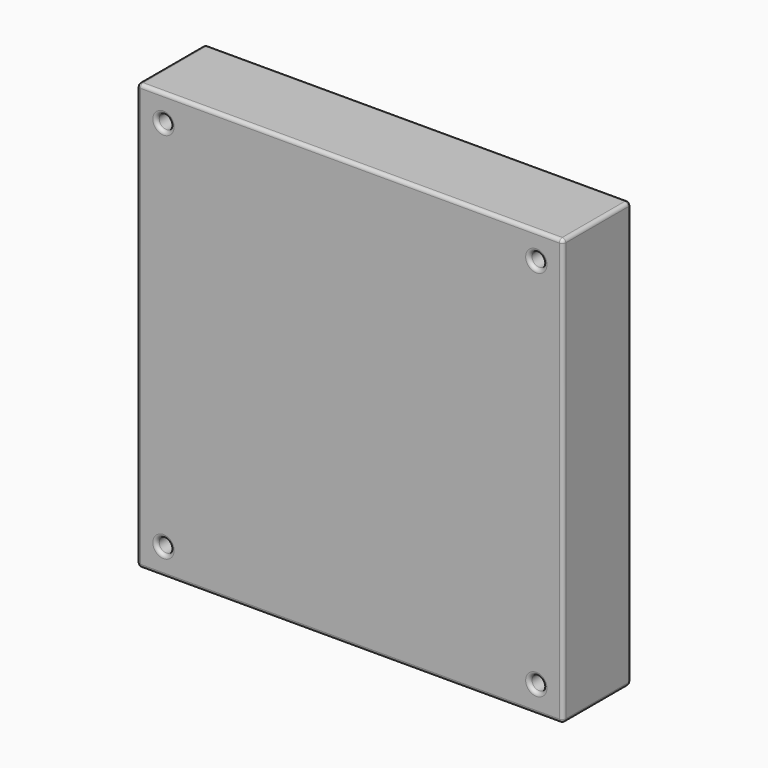
from build123d import *

# Parameters (mm, degrees)
F0_W     = 120
F0_H     = 120
F1_DEPTH = 24
F3_D     = 4
F4_R     = 1


with BuildPart() as f1:
    # F0 (on Front) → F1 (new body)
    with BuildSketch(Plane.XZ):
        Rectangle(F0_W, F0_H)
    extrude(amount=F1_DEPTH)

    # F3 (through all)
    with Locations(Plane.XZ.offset(24)):
        with Locations((-52.5, 52.5), (52.5, 52.5), (52.5, -52.5), (-52.5, -52.5)):
            Hole(F3_D / 2)

    # F4
    f4_edges = [f1.edges().sort_by_distance(p)[0] for p in [
        (60, -12, 60),
        (-60, -12, 60),
        (0, 0, 60),
        (0, -24, 60),
        (0, -24, -60),
        (-60, -24, 0),
        (60, -24, 0),
        (-54.5, -24, -52.5),
        (50.5, -24, -52.5),
        (-54.5, -24, 52.5),
        (50.5, -24, 52.5),
        (60, -12, -60),
        (60, 0, 0),
        (0, 0, -60),
        (-60, 0, 0),
        (-54.5, 0, -52.5),
        (50.5, 0, -52.5),
        (-54.5, 0, 52.5),
        (50.5, 0, 52.5),
        (-60, -12, -60),
    ]]
    fillet(f4_edges, radius=F4_R)


solid = f1.part
